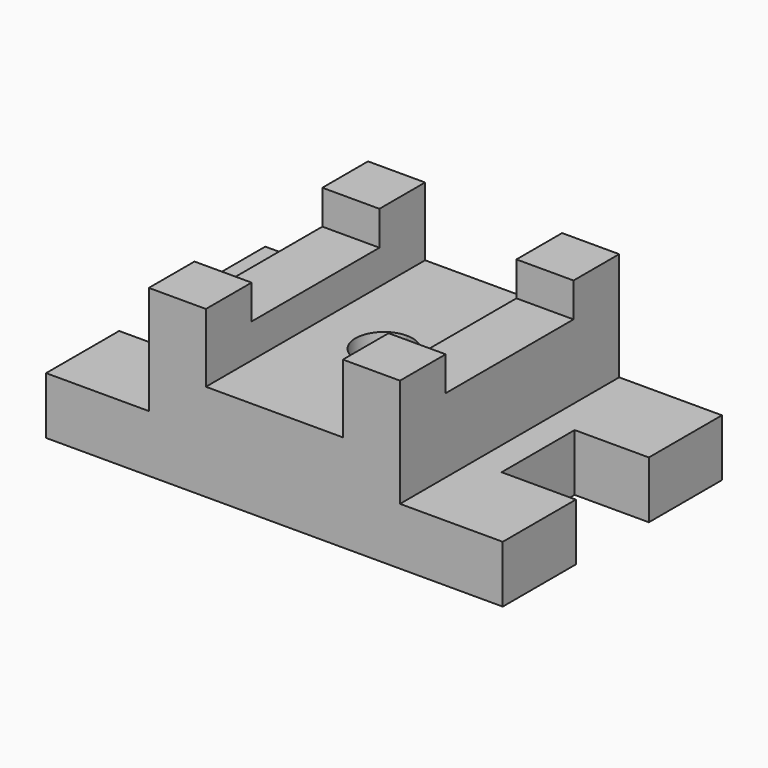
from build123d import *

# Parameters (mm, degrees)
F1_DEPTH = 31.75
F0_W     = 31.75
F0_H     = 31.75
F2_DEPTH = 92.075
F0_H_2   = 88.9
F3_DEPTH = 73.025
F4_DEPTH = 53.975


with BuildPart() as f1:
    # F0 (on Top) → F1 (new body)
    with BuildSketch(Plane.XY):
        Polygon((-153.553607, 67.079264), (-153.553607, 98.829264), (-210.703607, 98.829264), (-210.703607, 48.029264), (-169.428607, 48.029264), (-169.428607, -2.770736), (-210.703607, -2.770736), (-210.703607, -53.570736), (-153.553607, -53.570736), (-153.553607, -21.820736), align=None)
        Polygon((43.296393, 98.829264), (-13.853607, 98.829264), (-13.853607, 67.079264), (-13.853607, -21.820736), (-13.853607, -53.570736), (43.296393, -53.570736), (43.296393, -2.770736), (2.021393, -2.770736), (2.021393, 48.029264), (43.296393, 48.029264), align=None)
    extrude(amount=F1_DEPTH)

    # F0 (on Top) → F2 (join)
    with BuildSketch(Plane.XY):
        with Locations((-137.678607, 82.954264)):
            Rectangle(F0_W, F0_H)
        with Locations((-137.678607, -37.695736)):
            Rectangle(F0_W, F0_H)
        with Locations((-29.728607, -37.695736)):
            Rectangle(F0_W, F0_H)
        with Locations((-29.728607, 82.954264)):
            Rectangle(F0_W, F0_H)
    extrude(amount=F2_DEPTH)

    # F0 (on Top) → F3 (join)
    with BuildSketch(Plane.XY):
        with Locations((-137.678607, 22.629264)):
            Rectangle(F0_W, F0_H_2)
        with Locations((-29.728607, 22.629264)):
            Rectangle(F0_W, F0_H_2)
    extrude(amount=F3_DEPTH)

    # F0 (on Top) → F4 (join)
    with BuildSketch(Plane.XY):
        with BuildLine():
            Line((-83.703607, 38.504264), (-83.703607, 98.829264))
            Line((-83.703607, 98.829264), (-121.803607, 98.829264))
            Line((-121.803607, 98.829264), (-121.803607, 67.079264))
            Line((-121.803607, 67.079264), (-121.803607, -21.820736))
            Line((-121.803607, -21.820736), (-121.803607, -53.570736))
            Line((-121.803607, -53.570736), (-83.703607, -53.570736))
            Line((-83.703607, -53.570736), (-83.703607, 6.754264))
            ThreePointArc((-83.703607, 6.754264), (-99.578607, 22.629264), (-83.703607, 38.504264))
        make_face()
        with BuildLine():
            Line((-45.603607, 67.079264), (-45.603607, 98.829264))
            Line((-45.603607, 98.829264), (-83.703607, 98.829264))
            Line((-83.703607, 98.829264), (-83.703607, 38.504264))
            ThreePointArc((-83.703607, 38.504264), (-72.478287, 33.854584), (-67.828607, 22.629264))
            ThreePointArc((-67.828607, 22.629264), (-72.478287, 11.403944), (-83.703607, 6.754264))
            Line((-83.703607, 6.754264), (-83.703607, -53.570736))
            Line((-83.703607, -53.570736), (-45.603607, -53.570736))
            Line((-45.603607, -53.570736), (-45.603607, -21.820736))
            Line((-45.603607, -21.820736), (-45.603607, 67.079264))
        make_face()
    extrude(amount=F4_DEPTH)


solid = f1.part
